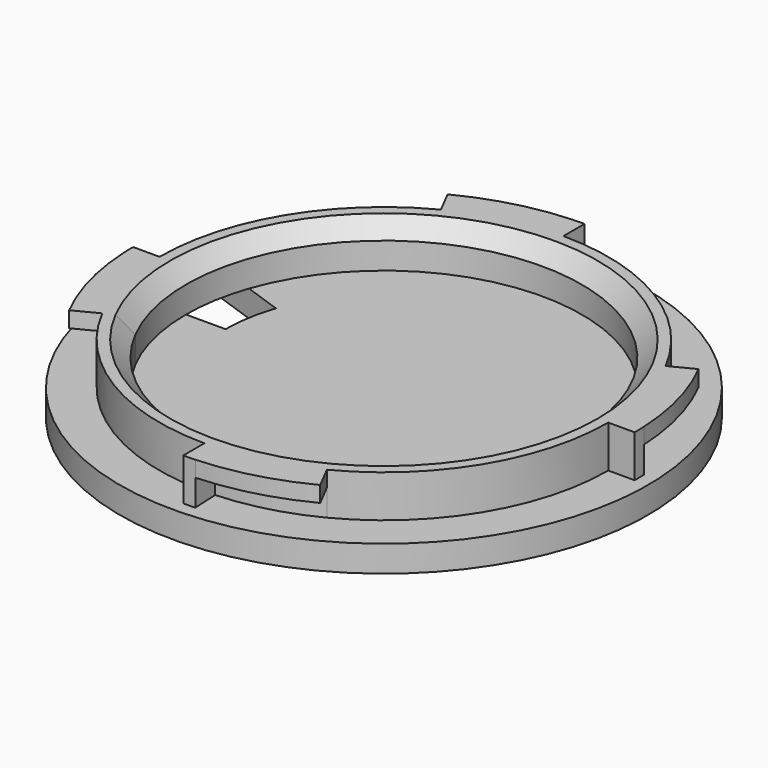
from build123d import *

# Parameters (mm, degrees)
F1_DEPTH = 8
F2_DEPTH = 8
F3_START = 5
F3_DEPTH = 3
F4_R     = 50
F5_DEPTH = 5
F7_DEPTH = 5
F8_SIZE  = 3


with BuildPart() as f1:
    # F0 (on Top) → F1 (new body)
    with BuildSketch(Plane.XY):
        with BuildLine():
            ThreePointArc((19.4384842845, -37.7941176471), (36.2793714257, -22.137235802), (42.5, 0))
            ThreePointArc((42.5, 0), (42.488227143, 1.0002770852), (42.4529150943, 2))
            ThreePointArc((42.4529150943, 2), (41.0599774657, 10.969423436), (37.7941176471, 19.4384842845))
            ThreePointArc((37.7941176471, 19.4384842845), (22.137235802, 36.2793714257), (0, 42.5))
            ThreePointArc((0, 42.5), (-1.0002770852, 42.488227143), (-2, 42.4529150943))
            ThreePointArc((-2, 42.4529150943), (-10.969423436, 41.0599774657), (-19.4384842845, 37.7941176471))
            ThreePointArc((-19.4384842845, 37.7941176471), (-36.2793714257, 22.137235802), (-42.5, 0))
            ThreePointArc((-42.5, 0), (-42.488227143, -1.0002770852), (-42.4529150943, -2))
            ThreePointArc((-42.4529150943, -2), (-41.0599774657, -10.969423436), (-37.7941176471, -19.4384842845))
            ThreePointArc((-37.7941176471, -19.4384842845), (-22.137235802, -36.2793714257), (0, -42.5))
            ThreePointArc((0, -42.5), (1.0002770852, -42.488227143), (2, -42.4529150943))
            ThreePointArc((2, -42.4529150943), (10.969423436, -41.0599774657), (19.4384842845, -37.7941176471))
        make_face()
        with BuildLine():
            ThreePointArc((37.5, 0), (8.8235294118, -36.4471580335), (-33.3477508651, -17.1516037805))
            ThreePointArc((-33.3477508651, -17.1516037805), (-8.8235294118, 36.4471580335), (37.5, 0))
        make_face(mode=Mode.SUBTRACT)
    extrude(amount=F1_DEPTH)

    # F0 (on Top) → F2 (join)
    with BuildSketch(Plane.XY):
        with BuildLine():
            ThreePointArc((-47.5, 0), (-47.486842101, -1.1179567422), (-47.4473756936, -2.2352941176))
            Line((-47.4473756936, -2.2352941176), (-42.4529150943, -2))
            ThreePointArc((-42.4529150943, -2), (-42.488227143, -1.0002770852), (-42.5, 0))
            Line((-42.5, 0), (-47.5, 0))
        make_face()
        with BuildLine():
            Line((0, 42.5), (0, 47.5))
            ThreePointArc((0, 47.5), (-1.1179567422, 47.486842101), (-2.2352941176, 47.4473756936))
            Line((-2.2352941176, 47.4473756936), (-2, 42.4529150943))
            ThreePointArc((-2, 42.4529150943), (-1.0002770852, 42.488227143), (0, 42.5))
        make_face()
        with BuildLine():
            Line((42.5, 0), (47.5, 0))
            ThreePointArc((47.5, 0), (47.486842101, 1.1179567422), (47.4473756936, 2.2352941176))
            Line((47.4473756936, 2.2352941176), (42.4529150943, 2))
            ThreePointArc((42.4529150943, 2), (42.488227143, 1.0002770852), (42.5, 0))
        make_face()
        with BuildLine():
            ThreePointArc((0, -47.5), (1.1179567422, -47.486842101), (2.2352941176, -47.4473756936))
            Line((2.2352941176, -47.4473756936), (2, -42.4529150943))
            ThreePointArc((2, -42.4529150943), (1.0002770852, -42.488227143), (0, -42.5))
            Line((0, -42.5), (0, -47.5))
        make_face()
    extrude(amount=F2_DEPTH)

    # F0 (on Top) → F3 (join)
    with BuildSketch(Plane.XY.offset(F3_START)):
        with BuildLine():
            ThreePointArc((-47.4473756936, -2.2352941176), (-45.8905630499, -12.2599438402), (-42.2404844291, -21.7253647886))
            Line((-42.2404844291, -21.7253647886), (-37.7941176471, -19.4384842845))
            ThreePointArc((-37.7941176471, -19.4384842845), (-41.0599774657, -10.969423436), (-42.4529150943, -2))
            Line((-42.4529150943, -2), (-47.4473756936, -2.2352941176))
        make_face()
        with BuildLine():
            ThreePointArc((2.2352941176, -47.4473756936), (12.2599438402, -45.8905630499), (21.7253647886, -42.2404844291))
            Line((21.7253647886, -42.2404844291), (19.4384842845, -37.7941176471))
            ThreePointArc((19.4384842845, -37.7941176471), (10.969423436, -41.0599774657), (2, -42.4529150943))
            Line((2, -42.4529150943), (2.2352941176, -47.4473756936))
        make_face()
        with BuildLine():
            Line((42.4529150943, 2), (47.4473756936, 2.2352941176))
            ThreePointArc((47.4473756936, 2.2352941176), (45.8905630499, 12.2599438402), (42.2404844291, 21.7253647886))
            Line((42.2404844291, 21.7253647886), (37.7941176471, 19.4384842845))
            ThreePointArc((37.7941176471, 19.4384842845), (41.0599774657, 10.969423436), (42.4529150943, 2))
        make_face()
        with BuildLine():
            Line((-2, 42.4529150943), (-2.2352941176, 47.4473756936))
            ThreePointArc((-2.2352941176, 47.4473756936), (-12.2599438402, 45.8905630499), (-21.7253647886, 42.2404844291))
            Line((-21.7253647886, 42.2404844291), (-19.4384842845, 37.7941176471))
            ThreePointArc((-19.4384842845, 37.7941176471), (-10.969423436, 41.0599774657), (-2, 42.4529150943))
        make_face()
    extrude(amount=F3_DEPTH)

    # F4 (on Top) → F5 (join)
    with BuildSketch(Plane.XY):
        Circle(F4_R)
    extrude(amount=-F5_DEPTH)

    # F6 (on Top) → F7 (cut)
    with BuildSketch(Plane.XY):
        with BuildLine():
            Line((-28.3333333333, 9.8601329718), (-47.2222222222, 16.4335549531))
            ThreePointArc((-47.2222222222, 16.4335549531), (-49.3006648592, 8.3333333333), (-50, 0))
            Line((-50, 0), (-30, 0))
            ThreePointArc((-30, 0), (-29.5803989155, 5), (-28.3333333333, 9.8601329718))
        make_face()
    extrude(amount=-F7_DEPTH, mode=Mode.SUBTRACT)

    # F8
    f8_edges = [f1.edges().sort_by_distance(p)[0] for p in [
        (-37.5, 0, 8),
    ]]
    chamfer(f8_edges, length=F8_SIZE)


solid = f1.part
